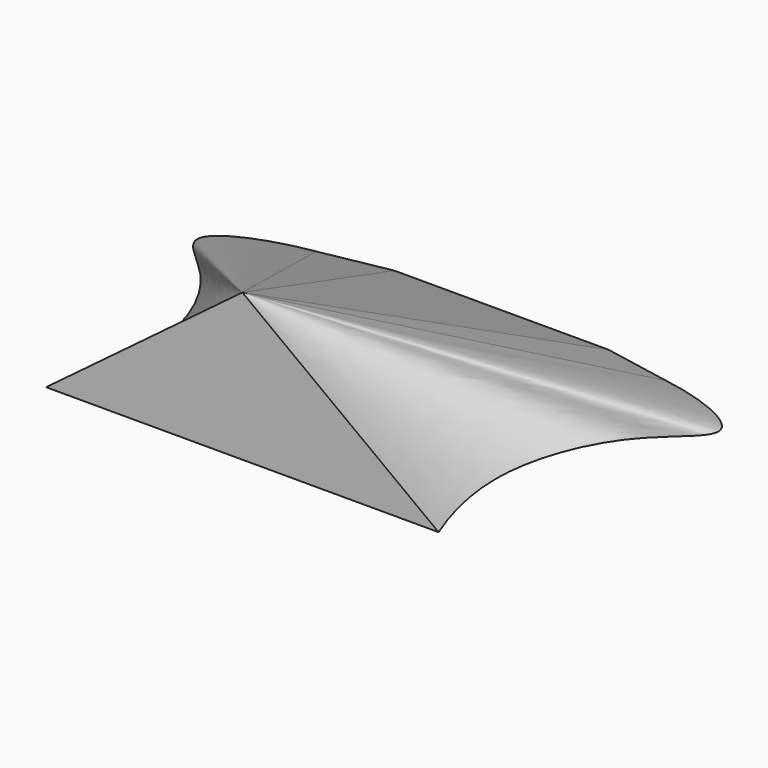
from build123d import *


with BuildPart() as f3:
    # F0 (on Top) → F3 section 0
    with BuildSketch(Plane.XY, mode=Mode.PRIVATE) as f3_s0:
        with BuildLine():
            Line((-21.8302697269, 24.1477975046), (-35.6595516205, 21.5416724649))
            add(Edge.make_bspline(
                [(-35.6595516205, 21.5416724649), (-43.5440763831, 20.3296692466), (-59.6029324373, 14.1729042105), (-41.8015409405, 3.8336578149), (-32.9046887709, -19.8407724423), (-37.5337065326, -35.6886010498), (-40, -41.8505555594)],
                knots=[0, 0, 0, 0, 0.2469273066, 0.450304563, 0.7335604216, 1, 1, 1, 1], degree=3))
            Line((-40, -41.8505555594), (0, -41.8505555594))
            Line((0, -41.8505555594), (40, -41.8505555594))
            add(Edge.make_bspline(
                [(35.6595516205, 21.5416724649), (43.5440763831, 20.3296692466), (59.6029324373, 14.1729042105), (41.8015409405, 3.8336578149), (32.9046887709, -19.8407724423), (37.5337065326, -35.6886010498), (40, -41.8505555594)],
                knots=[0, 0, 0, 0, 0.2469273066, 0.450304563, 0.7335604216, 1, 1, 1, 1], degree=3))
            Line((35.6595516205, 21.5416724649), (21.8302697269, 24.1477975046))
            Line((21.8302697269, 24.1477975046), (0, 24.1477975046))
            Line((0, 24.1477975046), (-21.8302697269, 24.1477975046))
        make_face()
    loft([f3_s0.sketch, Vertex(0, -41.8505555594, 30)])


solid = f3.part
